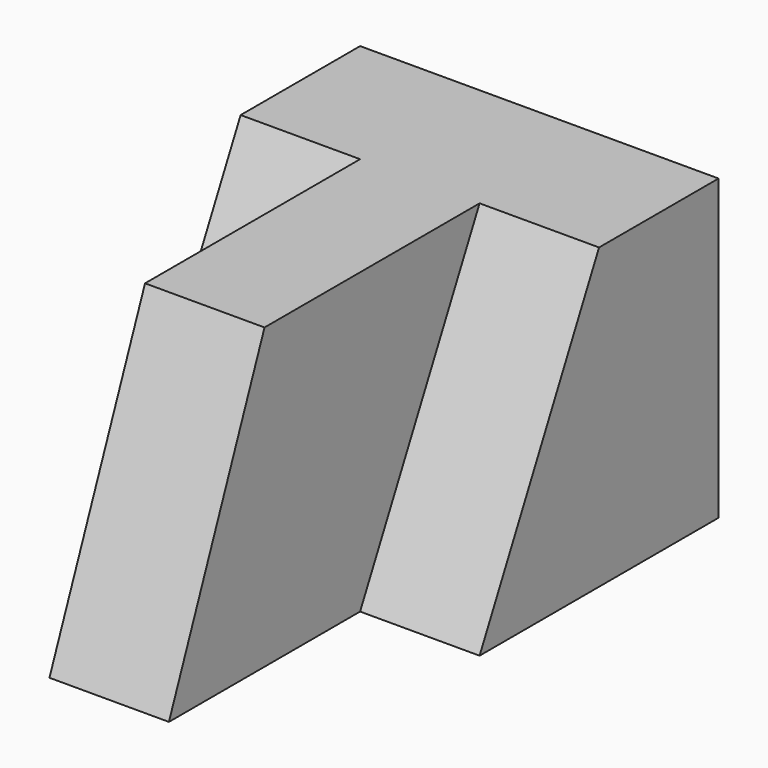
from build123d import *

# Parameters (mm, degrees)
F1_DEPTH = 31.75
F3_DEPTH = 25.4
F5_DEPTH = 12.7
F7_DEPTH = 12.7


with BuildPart() as f1:
    # F0 (on Top) → F1 (new body)
    with BuildSketch(Plane.XY):
        Polygon((0, 31.75), (0, 0), (12.7, 0), (12.7, -25.4), (25.4, -25.4), (25.4, 0), (38.1, 0), (38.1, 31.75), align=None)
    extrude(amount=F1_DEPTH)

    # F2 (on face) → F3 (cut)
    with BuildSketch(Plane(origin=(12.7, 0, 0), x_dir=(0, -1, 0), z_dir=(-1, 0, 0))):
        Polygon((25.4, 31.75), (12.7, 31.75), (25.4, 0), align=None)
    extrude(amount=-F3_DEPTH, mode=Mode.SUBTRACT)

    # F4 (on face) → F5 (cut)
    with BuildSketch(Plane(origin=(0, 0, 0), x_dir=(0, -1, 0), z_dir=(-1, 0, 0))):
        Polygon((0, 31.75), (-15.875, 31.75), (0, 0), align=None)
    extrude(amount=-F5_DEPTH, mode=Mode.SUBTRACT)

    # F6 (on face) → F7 (cut)
    with BuildSketch(Plane.YZ.offset(38.1)):
        Polygon((0, 0), (15.875, 31.75), (0, 31.75), align=None)
    extrude(amount=-F7_DEPTH, mode=Mode.SUBTRACT)


solid = f1.part
